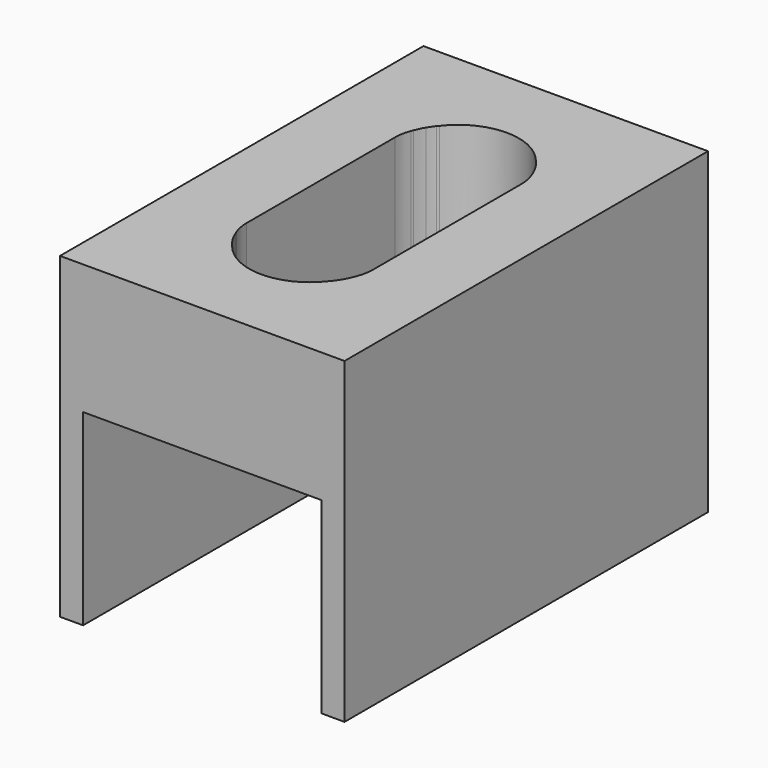
from build123d import *

# Parameters (mm, degrees)
F1_DEPTH = 99.8728
F3_DEPTH = 76.2


with BuildPart() as f1:
    # F0 (on Front) → F1 (new body)
    with BuildSketch(Plane.XZ):
        Polygon((-13.7100952876, 21.0289580073), (-13.7100952876, -48.8210419927), (-8.6300952876, -48.8210419927), (-8.6300952876, -7.5460419927), (43.7574047124, -7.5460419927), (43.7574047124, -48.8210419927), (48.8374047124, -48.8210419927), (48.8374047124, 21.0289580073), align=None)
    extrude(amount=F1_DEPTH)

    # F2 (on face) → F3 (cut)
    with BuildSketch(Plane.XY.offset(21.0289580073)):
        with BuildLine():
            Line((4.2286547124, -29.537025), (17.5636547124, -29.537025))
            Line((17.5636547124, -29.537025), (30.8986547124, -29.537025))
            ThreePointArc((30.8986547124, -29.537025), (30.5444686783, -26.4840438695), (29.5007253861, -23.5932409585))
            ThreePointArc((29.5007253861, -23.5932409585), (29.3257485393, -23.2540819151), (29.1411379191, -22.9200689325))
            ThreePointArc((29.1411379191, -22.9200689325), (28.7900449027, -22.3404710819), (28.4099613701, -21.7794572827))
            ThreePointArc((28.4099613701, -21.7794572827), (28.2935993518, -21.6192909152), (28.1748723712, -21.4608696772))
            ThreePointArc((28.1748723712, -21.4608696772), (17.5636547124, -16.202025), (6.9524370537, -21.4608696772))
            ThreePointArc((6.9524370537, -21.4608696772), (6.8337100731, -21.6192909152), (6.7173480548, -21.7794572827))
            ThreePointArc((6.7173480548, -21.7794572827), (6.3372645222, -22.3404710819), (5.9861715058, -22.9200689325))
            ThreePointArc((5.9861715058, -22.9200689325), (5.8015608856, -23.2540819151), (5.6265840388, -23.5932409585))
            ThreePointArc((5.6265840388, -23.5932409585), (4.5828407466, -26.4840438695), (4.2286547124, -29.537025))
        make_face()
        with BuildLine():
            add(Edge.make_bspline(
                [(6.6348823897, -21.8360589756), (6.6668516864, -21.8071087152), (6.6945437494, -21.7877762741), (6.7173480548, -21.7794572827)],
                knots=[0.7224537776, 0.7224537776, 0.7224537776, 0.7224537776, 0.8255541705, 0.8255541705, 0.8255541705, 0.8255541705], degree=3))
            ThreePointArc((6.7173480548, -21.7794572827), (6.8337100731, -21.6192909152), (6.9524370537, -21.4608696772))
            add(Edge.make_bspline(
                [(6.6348823897, -21.8360589756), (6.7514261553, -21.704238762), (6.8571022341, -21.5633194399), (6.9524370537, -21.4608696772)],
                knots=[0, 0, 0, 0, 0.5726806258, 0.5726806258, 0.5726806258, 0.5726806258], degree=3))
        make_face()
        with BuildLine():
            add(Edge.make_bspline(
                [(5.5428300794, -23.381213264), (5.6933813757, -23.1581826967), (5.8415011899, -22.996565798), (5.9861715058, -22.9200689325)],
                knots=[0.5000098323, 0.5000098323, 0.5000098323, 0.5000098323, 0.6927963918, 0.6927963918, 0.6927963918, 0.6927963918], degree=3))
            ThreePointArc((5.9861715058, -22.9200689325), (6.3372645222, -22.3404710819), (6.7173480548, -21.7794572827))
            add(Edge.make_bspline(
                [(6.6348823897, -21.8360589756), (6.6668516864, -21.8071087152), (6.6945437494, -21.7877762741), (6.7173480548, -21.7794572827)],
                knots=[0.7224537776, 0.7224537776, 0.7224537776, 0.7224537776, 0.8255541705, 0.8255541705, 0.8255541705, 0.8255541705], degree=3))
            add(Edge.make_bspline(
                [(5.5428300794, -23.381213264), (5.9768256033, -22.7140388873), (6.410864435, -22.0389216841), (6.6348823897, -21.8360589756)],
                knots=[0, 0, 0, 0, 0.7224537776, 0.7224537776, 0.7224537776, 0.7224537776], degree=3))
        make_face()
        with BuildLine():
            ThreePointArc((4.5098534254, -25.5285542738), (5.0140987543, -24.5296688557), (5.6265840388, -23.5932409585))
            ThreePointArc((5.6265840388, -23.5932409585), (5.8015608856, -23.2540819151), (5.9861715058, -22.9200689325))
            add(Edge.make_bspline(
                [(5.5428300794, -23.381213264), (5.6933813757, -23.1581826967), (5.8415011899, -22.996565798), (5.9861715058, -22.9200689325)],
                knots=[0.5000098323, 0.5000098323, 0.5000098323, 0.5000098323, 0.6927963918, 0.6927963918, 0.6927963918, 0.6927963918], degree=3))
            add(Edge.make_bspline(
                [(4.5098534254, -25.5285542738), (4.8587454794, -24.6825669454), (5.2068428285, -23.8789534298), (5.5428300794, -23.381213264)],
                knots=[0.0697656051, 0.0697656051, 0.0697656051, 0.0697656051, 0.5000098323, 0.5000098323, 0.5000098323, 0.5000098323], degree=3))
        make_face()
        with BuildLine():
            Line((3.6730297124, -29.537025), (4.2286547124, -29.537025))
            ThreePointArc((4.2286547124, -29.537025), (4.5828407466, -26.4840438695), (5.6265840388, -23.5932409585))
            ThreePointArc((5.6265840388, -23.5932409585), (5.0140987543, -24.5296688557), (4.5098534254, -25.5285542738))
            add(Edge.make_bspline(
                [(4.3401167851, -25.9423127165), (4.3966843979, -25.8040280443), (4.4532793595, -25.6657340757), (4.5098534254, -25.5285542738)],
                knots=[0, 0, 0, 0, 0.0697656051, 0.0697656051, 0.0697656051, 0.0697656051], degree=3))
            ThreePointArc((4.3401167851, -25.9423127165), (3.8412130947, -27.708982224), (3.6730297124, -29.537025))
        make_face()
        with BuildLine():
            ThreePointArc((28.1748723712, -21.4608696772), (28.2935993518, -21.6192909152), (28.4099613701, -21.7794572827))
            add(Edge.make_bspline(
                [(28.4924270351, -21.8360589756), (28.4604577384, -21.8071087152), (28.4327656754, -21.7877762741), (28.4099613701, -21.7794572827)],
                knots=[0.7224537776, 0.7224537776, 0.7224537776, 0.7224537776, 0.8255541705, 0.8255541705, 0.8255541705, 0.8255541705], degree=3))
            add(Edge.make_bspline(
                [(28.4924270351, -21.8360589756), (28.3758832696, -21.704238762), (28.2702071908, -21.5633194399), (28.1748723712, -21.4608696772)],
                knots=[0, 0, 0, 0, 0.5726806258, 0.5726806258, 0.5726806258, 0.5726806258], degree=3))
        make_face()
        with BuildLine():
            ThreePointArc((28.4099613701, -21.7794572827), (28.7900449027, -22.3404710819), (29.1411379191, -22.9200689325))
            add(Edge.make_bspline(
                [(29.5844793455, -23.381213264), (29.4339280492, -23.1581826967), (29.2858082349, -22.996565798), (29.1411379191, -22.9200689325)],
                knots=[0.5000098323, 0.5000098323, 0.5000098323, 0.5000098323, 0.6927963918, 0.6927963918, 0.6927963918, 0.6927963918], degree=3))
            add(Edge.make_bspline(
                [(29.5844793455, -23.381213264), (29.1504838216, -22.7140388873), (28.7164449899, -22.0389216841), (28.4924270351, -21.8360589756)],
                knots=[0, 0, 0, 0, 0.7224537776, 0.7224537776, 0.7224537776, 0.7224537776], degree=3))
            add(Edge.make_bspline(
                [(28.4924270351, -21.8360589756), (28.4604577384, -21.8071087152), (28.4327656754, -21.7877762741), (28.4099613701, -21.7794572827)],
                knots=[0.7224537776, 0.7224537776, 0.7224537776, 0.7224537776, 0.8255541705, 0.8255541705, 0.8255541705, 0.8255541705], degree=3))
        make_face()
        with BuildLine():
            ThreePointArc((29.5007253861, -23.5932409585), (30.5444686783, -26.4840438695), (30.8986547124, -29.537025))
            Line((30.8986547124, -29.537025), (31.4542797124, -29.537025))
            ThreePointArc((31.4542797124, -29.537025), (31.2860963302, -27.708982224), (30.7871926398, -25.9423127165))
            add(Edge.make_bspline(
                [(30.7871926398, -25.9423127165), (30.730625027, -25.8040280443), (30.6740300653, -25.6657340757), (30.6174559995, -25.5285542738)],
                knots=[0, 0, 0, 0, 0.0697656051, 0.0697656051, 0.0697656051, 0.0697656051], degree=3))
            ThreePointArc((30.6174559995, -25.5285542738), (30.1132106705, -24.5296688557), (29.5007253861, -23.5932409585))
        make_face()
        with BuildLine():
            ThreePointArc((29.1411379191, -22.9200689325), (29.3257485393, -23.2540819151), (29.5007253861, -23.5932409585))
            ThreePointArc((29.5007253861, -23.5932409585), (30.1132106705, -24.5296688557), (30.6174559995, -25.5285542738))
            add(Edge.make_bspline(
                [(30.6174559995, -25.5285542738), (30.2685639455, -24.6825669454), (29.9204665964, -23.8789534298), (29.5844793455, -23.381213264)],
                knots=[0.0697656051, 0.0697656051, 0.0697656051, 0.0697656051, 0.5000098323, 0.5000098323, 0.5000098323, 0.5000098323], degree=3))
            add(Edge.make_bspline(
                [(29.5844793455, -23.381213264), (29.4339280492, -23.1581826967), (29.2858082349, -22.996565798), (29.1411379191, -22.9200689325)],
                knots=[0.5000098323, 0.5000098323, 0.5000098323, 0.5000098323, 0.6927963918, 0.6927963918, 0.6927963918, 0.6927963918], degree=3))
        make_face()
        with BuildLine():
            ThreePointArc((4.2286547124, -29.537025), (8.1343857853, -38.9662939271), (17.5636547124, -42.872025))
            Line((17.5636547124, -42.872025), (17.5636547124, -29.537025))
            Line((17.5636547124, -29.537025), (4.2286547124, -29.537025))
        make_face()
        with BuildLine():
            Line((17.5636547124, -29.537025), (17.5636547124, -42.872025))
            ThreePointArc((17.5636547124, -42.872025), (26.9929236395, -38.9662939271), (30.8986547124, -29.537025))
            Line((30.8986547124, -29.537025), (17.5636547124, -29.537025))
        make_face()
        with BuildLine():
            Line((17.5636547124, -57.000775), (17.5636547124, -49.9364))
            Line((17.5636547124, -49.9364), (17.5636547124, -42.872025))
            ThreePointArc((17.5636547124, -42.872025), (8.1343857853, -38.9662939271), (4.2286547124, -29.537025))
            Line((4.2286547124, -29.537025), (3.6730297124, -29.537025))
            Line((3.6730297124, -29.537025), (3.6730297124, -70.335775))
            ThreePointArc((3.6730297124, -70.335775), (3.8412130947, -72.163817776), (4.3401167851, -73.9304872835))
            add(Edge.make_bspline(
                [(4.3401167851, -73.9304872835), (4.3966843979, -74.0687719557), (4.4532793595, -74.2070659243), (4.5098534254, -74.3442457262)],
                knots=[0, 0, 0, 0, 0.0697656051, 0.0697656051, 0.0697656051, 0.0697656051], degree=3))
            ThreePointArc((4.5098534254, -74.3442457262), (5.0140987543, -75.3431311443), (5.6265840388, -76.2795590415))
            ThreePointArc((5.6265840388, -76.2795590415), (6.2260494716, -63.3157370796), (17.5636547124, -57.000775))
        make_face()
        with BuildLine():
            Line((17.5636547124, -42.872025), (17.5636547124, -49.9364))
            Line((17.5636547124, -49.9364), (31.4542797124, -49.9364))
            Line((31.4542797124, -49.9364), (31.4542797124, -29.537025))
            Line((31.4542797124, -29.537025), (30.8986547124, -29.537025))
            ThreePointArc((30.8986547124, -29.537025), (26.9929236395, -38.9662939271), (17.5636547124, -42.872025))
        make_face()
        with BuildLine():
            Line((31.4542797124, -49.9364), (17.5636547124, -49.9364))
            Line((17.5636547124, -49.9364), (17.5636547124, -57.000775))
            ThreePointArc((17.5636547124, -57.000775), (26.9929236395, -60.9065060729), (30.8986547124, -70.335775))
            Line((30.8986547124, -70.335775), (31.4542797124, -70.335775))
            Line((31.4542797124, -70.335775), (31.4542797124, -49.9364))
        make_face()
        with BuildLine():
            Line((17.5636547124, -68.4276), (17.5636547124, -57.000775))
            ThreePointArc((17.5636547124, -57.000775), (6.2260494716, -63.3157370796), (5.6265840388, -76.2795590415))
            ThreePointArc((5.6265840388, -76.2795590415), (5.8015608856, -76.6187180849), (5.9861715058, -76.9527310675))
            ThreePointArc((5.9861715058, -76.9527310675), (6.3372645222, -77.5323289181), (6.7173480548, -78.0933427173))
            ThreePointArc((6.7173480548, -78.0933427173), (6.8337100731, -78.2535090848), (6.9524370537, -78.4119303228))
            ThreePointArc((6.9524370537, -78.4119303228), (17.5636547124, -83.670775), (28.1748723712, -78.4119303228))
            ThreePointArc((28.1748723712, -78.4119303228), (28.2935993518, -78.2535090848), (28.4099613701, -78.0933427173))
            ThreePointArc((28.4099613701, -78.0933427173), (28.7900449027, -77.5323289181), (29.1411379191, -76.9527310675))
            ThreePointArc((29.1411379191, -76.9527310675), (29.3257485393, -76.6187180849), (29.5007253861, -76.2795590415))
            ThreePointArc((29.5007253861, -76.2795590415), (30.5444686783, -73.3887561305), (30.8986547124, -70.335775))
            Line((30.8986547124, -70.335775), (17.5636547124, -70.335775))
            Line((17.5636547124, -70.335775), (17.5636547124, -68.4276))
        make_face()
        with BuildLine():
            ThreePointArc((30.8986547124, -70.335775), (26.9929236395, -60.9065060729), (17.5636547124, -57.000775))
            Line((17.5636547124, -57.000775), (17.5636547124, -68.4276))
            Line((17.5636547124, -68.4276), (17.5636547124, -70.335775))
            Line((17.5636547124, -70.335775), (30.8986547124, -70.335775))
        make_face()
        with BuildLine():
            Line((31.4542797124, -70.335775), (30.8986547124, -70.335775))
            ThreePointArc((30.8986547124, -70.335775), (30.5444686783, -73.3887561305), (29.5007253861, -76.2795590415))
            ThreePointArc((29.5007253861, -76.2795590415), (30.1132106705, -75.3431311443), (30.6174559995, -74.3442457262))
            add(Edge.make_bspline(
                [(30.7871926398, -73.9304872835), (30.730625027, -74.0687719557), (30.6740300653, -74.2070659243), (30.6174559995, -74.3442457262)],
                knots=[0, 0, 0, 0, 0.0697656051, 0.0697656051, 0.0697656051, 0.0697656051], degree=3))
            ThreePointArc((30.7871926398, -73.9304872835), (31.2860963302, -72.163817776), (31.4542797124, -70.335775))
        make_face()
        with BuildLine():
            ThreePointArc((30.6174559995, -74.3442457262), (30.1132106705, -75.3431311443), (29.5007253861, -76.2795590415))
            ThreePointArc((29.5007253861, -76.2795590415), (29.3257485393, -76.6187180849), (29.1411379191, -76.9527310675))
            add(Edge.make_bspline(
                [(29.5844793455, -76.491586736), (29.4339280492, -76.7146173033), (29.2858082349, -76.876234202), (29.1411379191, -76.9527310675)],
                knots=[0.5000098323, 0.5000098323, 0.5000098323, 0.5000098323, 0.6927963918, 0.6927963918, 0.6927963918, 0.6927963918], degree=3))
            add(Edge.make_bspline(
                [(30.6174559995, -74.3442457262), (30.2685639455, -75.1902330546), (29.9204665964, -75.9938465702), (29.5844793455, -76.491586736)],
                knots=[0.0697656051, 0.0697656051, 0.0697656051, 0.0697656051, 0.5000098323, 0.5000098323, 0.5000098323, 0.5000098323], degree=3))
        make_face()
        with BuildLine():
            add(Edge.make_bspline(
                [(29.5844793455, -76.491586736), (29.4339280492, -76.7146173033), (29.2858082349, -76.876234202), (29.1411379191, -76.9527310675)],
                knots=[0.5000098323, 0.5000098323, 0.5000098323, 0.5000098323, 0.6927963918, 0.6927963918, 0.6927963918, 0.6927963918], degree=3))
            ThreePointArc((29.1411379191, -76.9527310675), (28.7900449027, -77.5323289181), (28.4099613701, -78.0933427173))
            add(Edge.make_bspline(
                [(28.4924270351, -78.0367410244), (28.4604577384, -78.0656912848), (28.4327656754, -78.0850237259), (28.4099613701, -78.0933427173)],
                knots=[0.7224537776, 0.7224537776, 0.7224537776, 0.7224537776, 0.8255541705, 0.8255541705, 0.8255541705, 0.8255541705], degree=3))
            add(Edge.make_bspline(
                [(29.5844793455, -76.491586736), (29.1504838216, -77.1587611127), (28.7164449899, -77.8338783159), (28.4924270351, -78.0367410244)],
                knots=[0, 0, 0, 0, 0.7224537776, 0.7224537776, 0.7224537776, 0.7224537776], degree=3))
        make_face()
        with BuildLine():
            ThreePointArc((5.9861715058, -76.9527310675), (5.8015608856, -76.6187180849), (5.6265840388, -76.2795590415))
            ThreePointArc((5.6265840388, -76.2795590415), (5.0140987543, -75.3431311443), (4.5098534254, -74.3442457262))
            add(Edge.make_bspline(
                [(4.5098534254, -74.3442457262), (4.8587454794, -75.1902330546), (5.2068428285, -75.9938465702), (5.5428300794, -76.491586736)],
                knots=[0.0697656051, 0.0697656051, 0.0697656051, 0.0697656051, 0.5000098323, 0.5000098323, 0.5000098323, 0.5000098323], degree=3))
            add(Edge.make_bspline(
                [(5.5428300794, -76.491586736), (5.6933813757, -76.7146173033), (5.8415011899, -76.876234202), (5.9861715058, -76.9527310675)],
                knots=[0.5000098323, 0.5000098323, 0.5000098323, 0.5000098323, 0.6927963918, 0.6927963918, 0.6927963918, 0.6927963918], degree=3))
        make_face()
        with BuildLine():
            ThreePointArc((6.7173480548, -78.0933427173), (6.3372645222, -77.5323289181), (5.9861715058, -76.9527310675))
            add(Edge.make_bspline(
                [(5.5428300794, -76.491586736), (5.6933813757, -76.7146173033), (5.8415011899, -76.876234202), (5.9861715058, -76.9527310675)],
                knots=[0.5000098323, 0.5000098323, 0.5000098323, 0.5000098323, 0.6927963918, 0.6927963918, 0.6927963918, 0.6927963918], degree=3))
            add(Edge.make_bspline(
                [(5.5428300794, -76.491586736), (5.9768256033, -77.1587611127), (6.410864435, -77.8338783159), (6.6348823897, -78.0367410244)],
                knots=[0, 0, 0, 0, 0.7224537776, 0.7224537776, 0.7224537776, 0.7224537776], degree=3))
            add(Edge.make_bspline(
                [(6.6348823897, -78.0367410244), (6.6668516864, -78.0656912848), (6.6945437494, -78.0850237259), (6.7173480548, -78.0933427173)],
                knots=[0.7224537776, 0.7224537776, 0.7224537776, 0.7224537776, 0.8255541705, 0.8255541705, 0.8255541705, 0.8255541705], degree=3))
        make_face()
    extrude(amount=-F3_DEPTH, mode=Mode.SUBTRACT)


solid = f1.part
